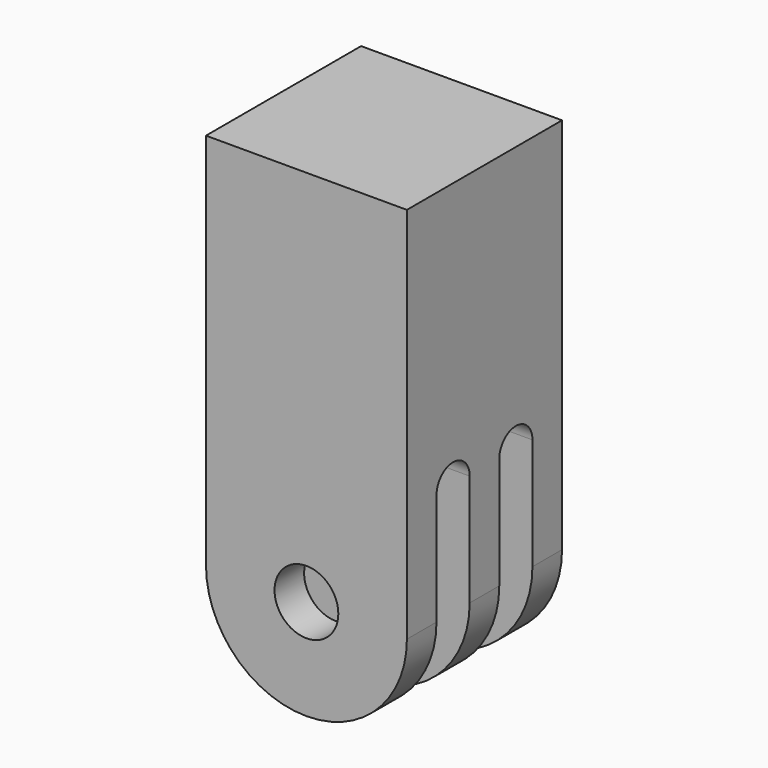
from build123d import *

# Parameters (mm, degrees)
F0_R          = 2.54
F1_DEPTH      = 7.7216
F1_DEPTH_BACK = 7.7216
F3_DEPTH      = 8.002
F3_DEPTH_BACK = 8.002


with BuildPart() as f1:
    # F0 (on Front) → F1 (new body, two sides)
    with BuildSketch(Plane.XZ) as f1_sk:
        with BuildLine():
            Line((-8.001, 30.099), (-8.001, 0))
            ThreePointArc((-8.001, 0), (0, -8.001), (8.001, 0))
            Line((8.001, 0), (8.001, 30.099))
            Line((8.001, 30.099), (-8.001, 30.099))
        make_face()
        Circle(F0_R, mode=Mode.SUBTRACT)
    extrude(amount=F1_DEPTH)
    extrude(f1_sk.sketch, amount=-F1_DEPTH_BACK)

    # F2 (on Right) → F3 (cut, two sides)
    with BuildSketch(Plane.YZ) as f3_sk:
        with BuildLine():
            Line((1.4732, 8.89), (1.4732, -10.7479624593))
            Line((1.4732, -10.7479624593), (4.7752, -10.7479624593))
            Line((4.7752, -10.7479624593), (4.7752, 8.89))
            ThreePointArc((4.7752, 8.89), (3.1242, 10.541), (1.4732, 8.89))
        make_face()
        with BuildLine():
            Line((-4.7752, 8.89), (-4.7752, -10.7479624593))
            Line((-4.7752, -10.7479624593), (-1.4732, -10.7479624593))
            Line((-1.4732, -10.7479624593), (-1.4732, 8.89))
            ThreePointArc((-1.4732, 8.89), (-3.1242, 10.541), (-4.7752, 8.89))
        make_face()
    extrude(amount=-F3_DEPTH, mode=Mode.SUBTRACT)
    extrude(f3_sk.sketch, amount=F3_DEPTH_BACK, mode=Mode.SUBTRACT)


solid = f1.part
